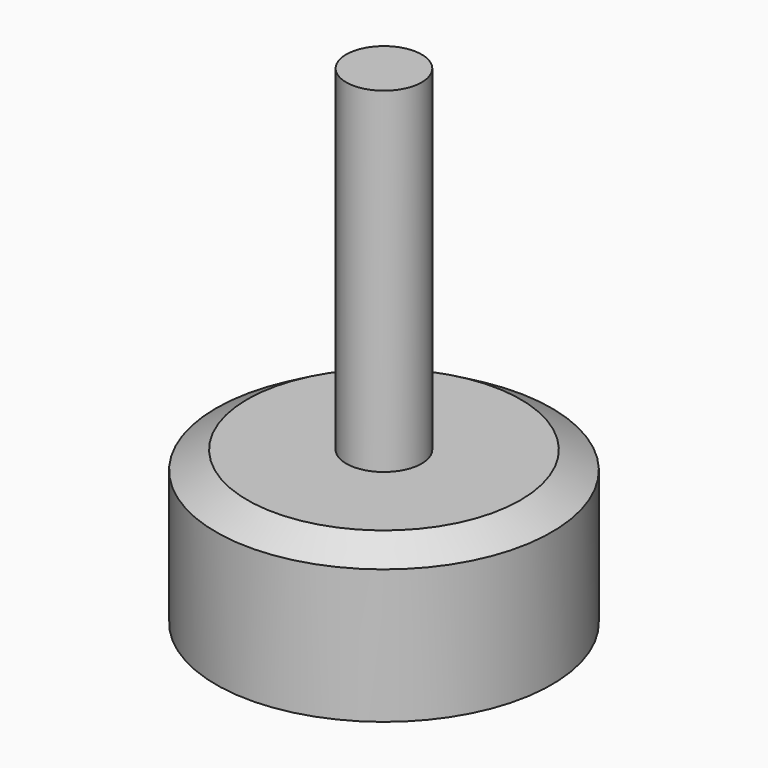
from build123d import *

# Parameters (mm, degrees)
F0_W   = 2.25
F0_H   = 20
F0_H_2 = 3
F0_H_3 = 1.0746234533


with BuildPart() as f1:
    # F0 (on Front) → F1 (revolve)
    with BuildSketch(Plane.XZ):
        with Locations((-21.6763077103, 19.0746234533)):
            Rectangle(F0_W, F0_H)
        Polygon((-22.8013077103, 8), (-30.5513077103, 8), (-30.5513077103, 0), (-22.8013077103, 0), (-22.8013077103, 5), align=None)
        Polygon((-28.6900052902, 9.0746234533), (-30.5513077103, 8), (-22.8013077103, 8), (-22.8013077103, 9.0746234533), align=None)
        with Locations((-21.6763077103, 6.5)):
            Rectangle(F0_W, F0_H_2)
        with Locations((-21.6763077103, 8.5373117267)):
            Rectangle(F0_W, F0_H_3)
    revolve(axis=Axis((-20.5513077103, 0, 19.0746234533), (0, 0, 1)))


solid = f1.part
